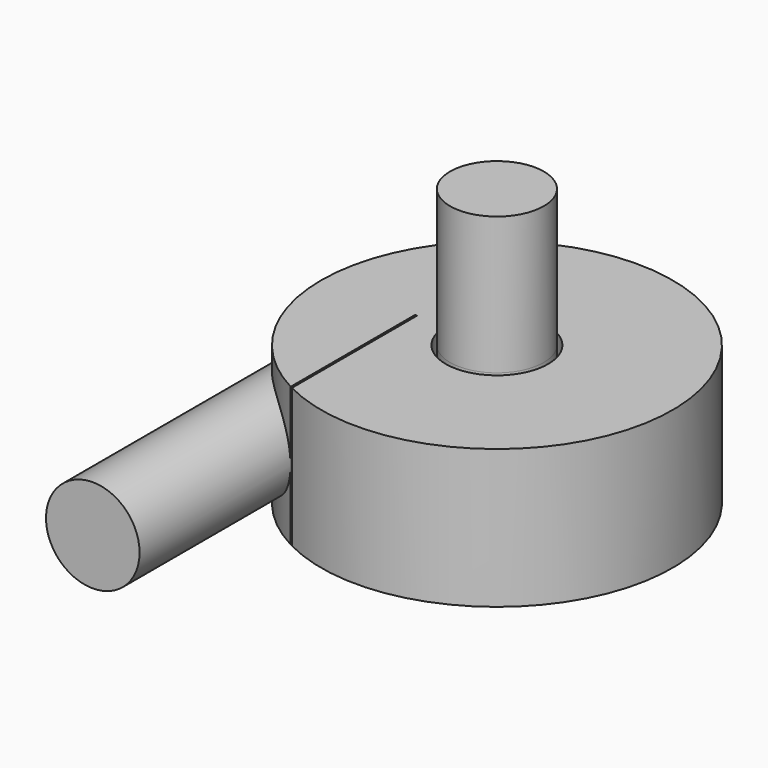
from build123d import *

# Parameters (mm, degrees)
F2_R      = 68
F3_DEPTH  = 500
F1_FACE_R = 68.2
F4_DEPTH  = 200
F5_W      = 3
F5_H      = 250
F6_DEPTH  = 375


with BuildPart() as f1:
    # F0 (on Front) → F1 (revolve)
    with BuildSketch(Plane.XZ):
        Polygon((-255.4, 169), (-114, 169), (-112, 168), (-112, 156), (0, 156), (0, 371), (-68.2, 371), (-68.2, 250), (-74.4, 250), (-74.4, 371), (-255.4, 371), align=None)
    revolve(axis=Axis((0, 0, 263.5), (0, 0, -1)))

    # F2 (on Front) → F3 (join)
    with BuildSketch(Plane.XZ):
        with Locations((-187.4, 270)):
            Circle(F2_R)
    extrude(amount=F3_DEPTH)

    # F1_face (on face) → F4 (join)
    with BuildSketch(Plane.XY.offset(371)):
        Circle(F1_FACE_R)
    extrude(amount=F4_DEPTH)

    # F5 (on Top) → F6 (cut)
    with BuildSketch(Plane.XY):
        with Locations((-117.5, -125)):
            Rectangle(F5_W, F5_H)
    extrude(amount=F6_DEPTH, mode=Mode.SUBTRACT)


solid = f1.part
